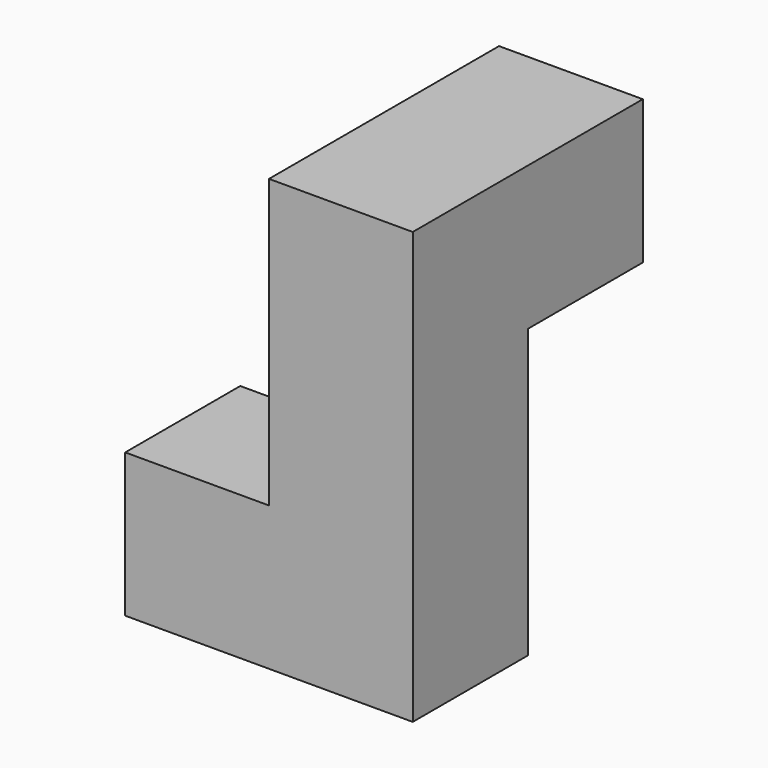
from build123d import *

# Parameters (mm, degrees)
F0_W     = 38.1
F0_H     = 19.05
F1_DEPTH = 19.05
F2_W     = 19.05
F2_H     = 19.05
F3_DEPTH = 38.1
F4_W     = 19.05
F4_H     = 19.05
F5_DEPTH = 19.05


with BuildPart() as f1:
    # F0 (on Top) → F1 (new body)
    with BuildSketch(Plane.XY):
        with Locations((19.05, 9.525)):
            Rectangle(F0_W, F0_H)
    extrude(amount=F1_DEPTH)

    # F2 (on face) → F3 (join)
    with BuildSketch(Plane.XY.offset(19.05)):
        with Locations((28.575, 9.525)):
            Rectangle(F2_W, F2_H)
    extrude(amount=F3_DEPTH)

    # F4 (on face) → F5 (join)
    with BuildSketch(Plane(origin=(0, 19.05, 0), x_dir=(-1, 0, 0), z_dir=(0, 1, 0))):
        with Locations((-28.575, 47.625)):
            Rectangle(F4_W, F4_H)
    extrude(amount=F5_DEPTH)


solid = f1.part
